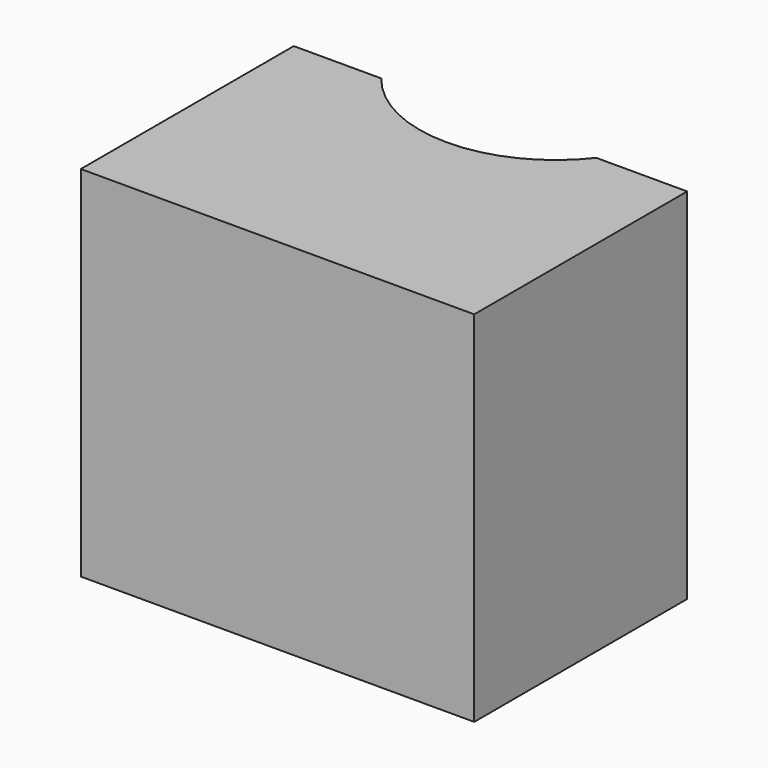
from build123d import *

# Parameters (mm, degrees)
F1_DEPTH = 50
F2_W     = 18.011728
F2_H     = 37.729833
F3_DEPTH = 25.4


with BuildPart() as f1:
    # F0 (on Top) → F1 (new body)
    with BuildSketch(Plane.XY):
        with BuildLine():
            Line((-23.32045, 35.454668), (-41.711375, 35.454668))
            Line((-41.711375, 35.454668), (-41.711375, -20.476492))
            Line((-41.711375, -20.476492), (40.952988, -20.476492))
            Line((40.952988, -20.476492), (40.952988, 35.454668))
            Line((40.952988, 35.454668), (21.859546, 35.454668))
            ThreePointArc((21.859546, 35.454668), (-0.730452, 24.410133), (-23.32045, 35.454668))
        make_face()
        with BuildLine():
            ThreePointArc((21.859546, 35.454668), (-0.730452, 46.499203), (-23.32045, 35.454668))
            Line((-23.32045, 35.454668), (21.859546, 35.454668))
        make_face()
    extrude(amount=F1_DEPTH)

    # F1_face (on face) + F2 (on Top) → F3 (join)
    with BuildSketch(Plane(origin=(-0.350598, 5.578786, 50), x_dir=(1, 0, 0), z_dir=(0, 0, 1))):
        with BuildLine():
            Line((-22.969852, 29.875882), (-41.360777, 29.875882))
            Line((-41.360777, 29.875882), (-41.360777, -26.055278))
            Line((-41.360777, -26.055278), (41.303586, -26.055278))
            Line((41.303586, -26.055278), (41.303586, 29.875882))
            Line((41.303586, 29.875882), (22.210144, 29.875882))
            ThreePointArc((22.210144, 29.875882), (-0.379854, 18.831348), (-22.969852, 29.875882))
        make_face()
    with BuildSketch(Plane.XY):
        with Locations((-32.895106, 54.509183)):
            Rectangle(F2_W, F2_H)
    extrude(amount=F3_DEPTH)


solid = f1.part
